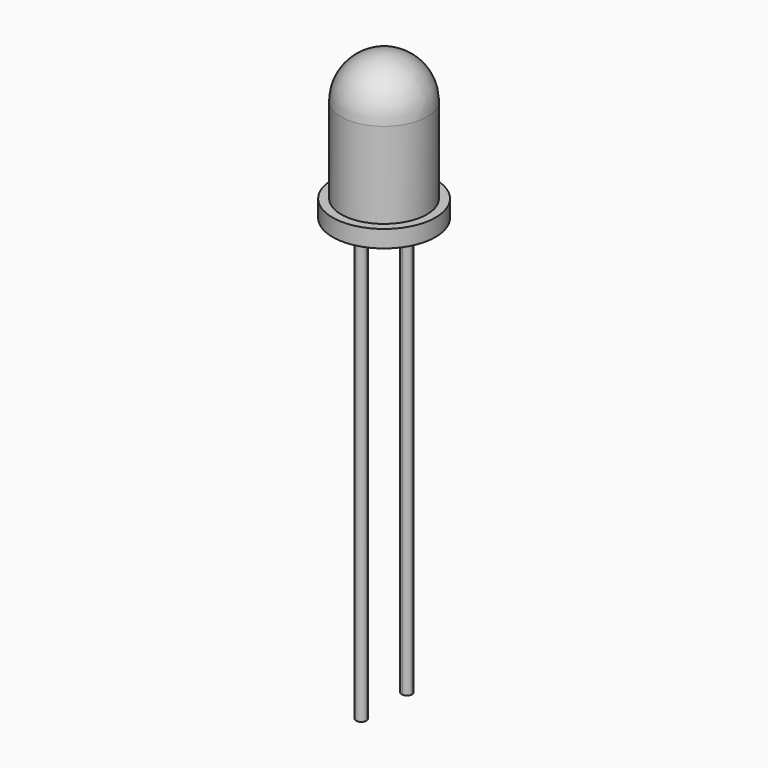
from build123d import *

# Parameters (mm, degrees)
F4_DEPTH = 25


with BuildPart() as f2:
    # F0 (on Front) → F2 (revolve)
    with BuildSketch(Plane.XZ):
        with BuildLine():
            Line((0, 8.5), (0, 0))
            Line((0, 0), (3, 0))
            Line((3, 0), (3, 1))
            Line((3, 1), (2.5, 1))
            Line((2.5, 1), (2.5, 6))
            ThreePointArc((2.5, 6), (1.767767, 7.767767), (0, 8.5))
        make_face()
    revolve(axis=Axis((0, 0, 5.585152), (0, 0, 1)))

    # F3 (on face) → F4 (join)
    with BuildSketch(Plane(origin=(0, 0, 0), x_dir=(1, 0, 0), z_dir=(0, 0, -1))):
        with BuildLine():
            ThreePointArc((0, -1.357044), (-0.214574, -1.875072), (0.303454, -1.660498))
            ThreePointArc((0.303454, -1.660498), (0.214574, -1.445924), (0, -1.357044))
        make_face()
        with BuildLine():
            ThreePointArc((0.303454, 1.660498), (-0.214574, 1.875072), (0, 1.357044))
            ThreePointArc((0, 1.357044), (0.214574, 1.445924), (0.303454, 1.660498))
        make_face()
    extrude(amount=F4_DEPTH)


solid = f2.part
